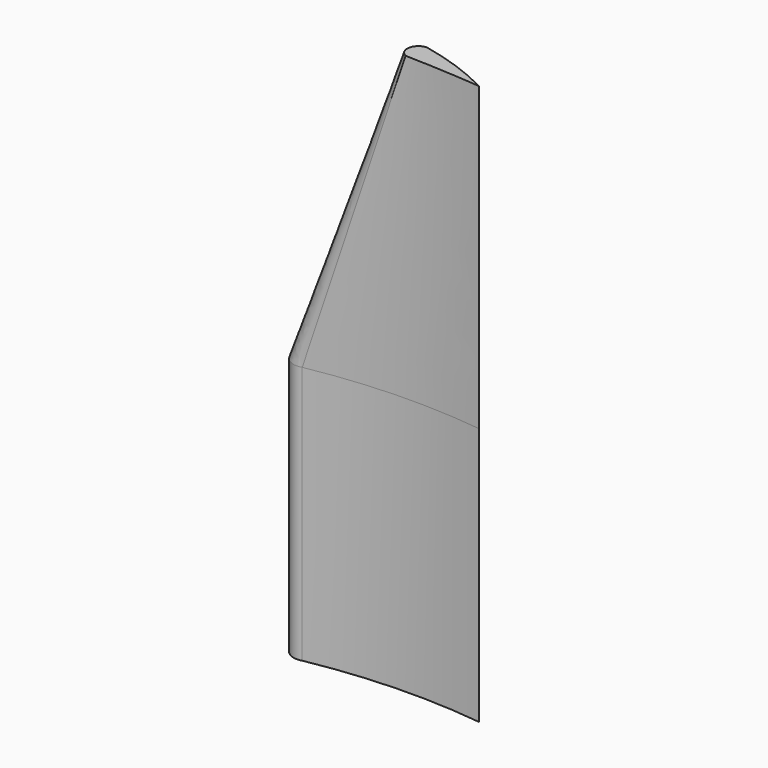
from build123d import *


with BuildPart() as f4:
    # F0 (on Top) → F4 section 0
    with BuildSketch(Plane.XY):
        with BuildLine():
            ThreePointArc((1.5474857793, -7.3085332362), (21.5310263119, -5.1508726081), (41.6096189935, -6.0714743331))
            ThreePointArc((41.6096189935, -6.0714743331), (21.2699883307, 0.1522717061), (0, 0))
            ThreePointArc((0, 0), (-3.2423450763, -4.5046204189), (1.5474857793, -7.3085332362))
        make_face()
    # F2 (on offset) → F4 section 1
    with BuildSketch(Plane.XY.offset(60)):
        with BuildLine():
            ThreePointArc((41.6096189935, -6.0714743331), (21.2699883307, 0.1522717061), (0, 0))
            ThreePointArc((0, 0), (-3.2423450763, -4.5046204189), (1.5474857793, -7.3085332362))
            ThreePointArc((1.5474857793, -7.3085332362), (21.5310263119, -5.1508726081), (41.6096189935, -6.0714743331))
        make_face()
    loft()

    # F4_face (on face) → F6 section 0
    with BuildSketch(Plane(origin=(14.0442099137, -3.0045587038, 60), x_dir=(1, 0, 0), z_dir=(0, 0, 1))):
        with BuildLine():
            ThreePointArc((-14.0442099137, 3.0045587038), (-17.28655499, -1.5000617151), (-12.4967241344, -4.3039745324))
            ThreePointArc((-12.4967241344, -4.3039745324), (7.4868163983, -2.1463139043), (27.5654090798, -3.0669156292))
            ThreePointArc((27.5654090798, -3.0669156292), (7.225778417, 3.1568304099), (-14.0442099137, 3.0045587038))
        make_face()
    # F5 (on offset) → F6 section 1
    with BuildSketch(Plane.XY.offset(130)):
        with BuildLine():
            ThreePointArc((23.7320419401, -4.9977814779), (32.6341024887, -5.3520079811), (41.5212251246, -5.97747555))
            ThreePointArc((41.5212251246, -5.97747555), (33.2689677889, -2.4114002007), (24.6086101979, 0))
            ThreePointArc((24.6086101979, 0), (22.2217339207, -2.1571242907), (23.7320419401, -4.9977814779))
        make_face()
    loft()


solid = f4.part
